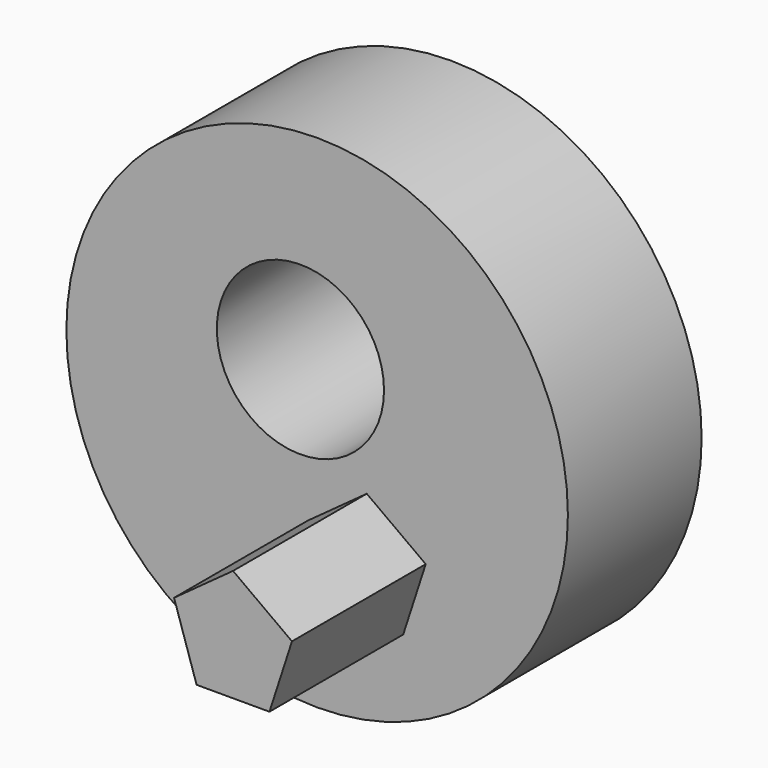
from build123d import *

# Parameters (mm, degrees)
F0_R     = 37.5
F1_DEPTH = 25
F4_R     = 12.5
F5_DEPTH = 25
F7_DEPTH = 25


with BuildPart() as f1:
    # F0 (on Front) → F1 (new body)
    with BuildSketch(Plane.XZ):
        Circle(F0_R)
    extrude(amount=F1_DEPTH)

    # F4 (on face) → F5 (cut)
    with BuildSketch(Plane.XZ.offset(25)):
        with Locations((-2.5, 7.5)):
            Circle(F4_R)
    extrude(amount=-F5_DEPTH, mode=Mode.SUBTRACT)

    # F6 (on face) → F7 (join)
    with BuildSketch(Plane.XZ.offset(25)):
        Polygon((1.973449, -23.717072), (12.871587, -23.717072), (16.239297, -13.352327), (7.422518, -6.946562), (-1.394261, -13.352327), align=None)
    extrude(amount=F7_DEPTH)


solid = f1.part
